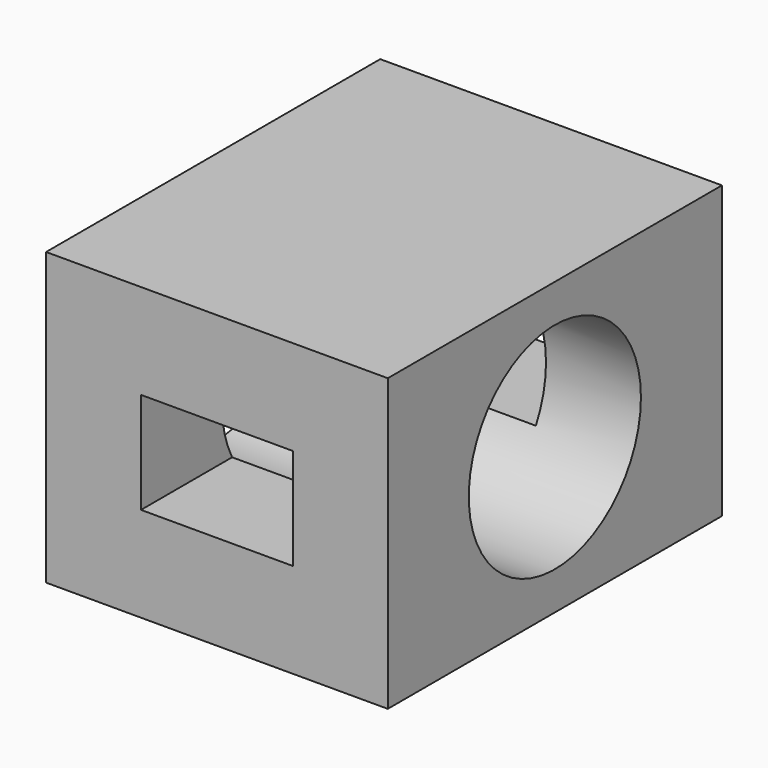
from build123d import *

# Parameters (mm, degrees)
F0_W     = 54
F0_H     = 66
F1_DEPTH = 46
F2_W     = 24
F2_H     = 16
F3_DEPTH = 66
F4_R     = 17
F5_DEPTH = 54


with BuildPart() as f1:
    # F0 (on Top) → F1 (new body)
    with BuildSketch(Plane.XY):
        with Locations((27, 33)):
            Rectangle(F0_W, F0_H)
    extrude(amount=F1_DEPTH)

    # F2 (on face) → F3 (cut)
    with BuildSketch(Plane.XZ):
        with Locations((27, 23)):
            Rectangle(F2_W, F2_H)
    extrude(amount=-F3_DEPTH, mode=Mode.SUBTRACT)

    # F4 (on face) → F5 (cut)
    with BuildSketch(Plane.YZ.offset(54)):
        with Locations((33, 23)):
            Circle(F4_R)
    extrude(amount=-F5_DEPTH, mode=Mode.SUBTRACT)


solid = f1.part
